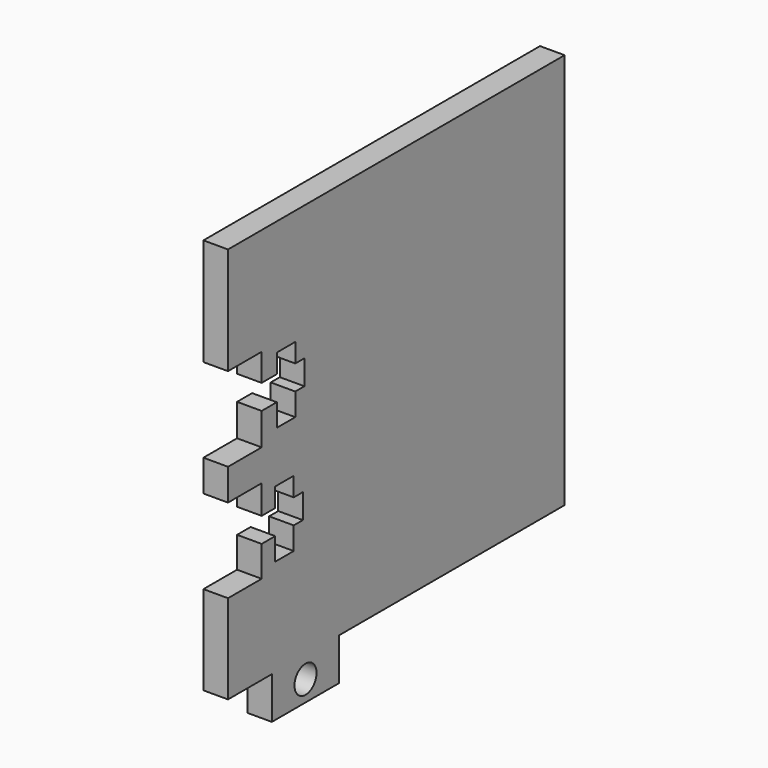
from build123d import *

# Parameters (mm, degrees)
F0_W     = 50.8
F0_H     = 50.8
F1_DEPTH = 2.9718
F2_W     = 5.08
F2_H     = 10.16
F3_DEPTH = 2.9728
F4_W     = 2.2792507852
F4_H     = 2.9790955722
F4_W_2   = 2.794
F4_W_3   = 1.3767347039
F4_H_2   = 2.2981600394
F4_H_3   = 2.7237443884
F4_W_4   = 2.0448682842
F5_DEPTH = 2.9728
F6_W     = 50.8
F6_H     = 2.9718
F7_DEPTH = 25.4
F8_W     = 10.16
F8_H     = 5.08
F8_R     = 1.6637
F9_DEPTH = 2.9718


with BuildPart() as f1:
    # F0 (on Right) → F1 (new body)
    with BuildSketch(Plane.YZ):
        Rectangle(F0_W, F0_H)
    extrude(amount=F1_DEPTH)

    # F2 (on face) → F3 (cut, through all)
    with BuildSketch(Plane.YZ.offset(2.9718)):
        with Locations((-22.86, 7.3814073086)):
            Rectangle(F2_W, F2_H)
        with Locations((-22.86, -6.5885926914)):
            Rectangle(F2_W, F2_H)
    extrude(amount=-F3_DEPTH, mode=Mode.SUBTRACT)

    # F4 (on face) → F5 (cut, through all)
    with BuildSketch(Plane.YZ.offset(2.9718)):
        with Locations((-19.1803746074, 7.6630806953)):
            Rectangle(F4_W, F4_H)
        with Locations((-16.6437492148, 7.6630806953)):
            Rectangle(F4_W_2, F4_H)
        with Locations((-14.5583818629, 7.6630806953)):
            Rectangle(F4_W_3, F4_H)
        with Locations((-16.6437492148, 10.3017085011)):
            Rectangle(F4_W_2, F4_H_2)
        with Locations((-16.6437492148, 4.811660715)):
            Rectangle(F4_W_2, F4_H_3)
        with Locations((-16.8781317158, -3.8333461044)):
            Rectangle(F4_W_2, F4_H_2)
        with Locations((-19.2975658579, -6.4719739102)):
            Rectangle(F4_W_4, F4_H)
        with Locations((-14.7927643638, -6.4719739102)):
            Rectangle(F4_W_3, F4_H)
        with Locations((-16.8781317158, -6.4719739102)):
            Rectangle(F4_W_2, F4_H)
        with Locations((-16.8781317158, -9.3233938905)):
            Rectangle(F4_W_2, F4_H_3)
    extrude(amount=-F5_DEPTH, mode=Mode.SUBTRACT)

    # F6 (on face) → F7 (cut)
    with BuildSketch(Plane.YZ.offset(2.9718)):
        with Locations((0, -23.9141)):
            Rectangle(F6_W, F6_H)
    extrude(amount=-F7_DEPTH, mode=Mode.SUBTRACT)

    # F8 (on face) → F9 (join)
    with BuildSketch(Plane.YZ.offset(2.9718)):
        with Locations((-13.7008163464, -24.9682)):
            Rectangle(F8_W, F8_H)
        with Locations((-13.7008163464, -25.0371717972)):
            Circle(F8_R, mode=Mode.SUBTRACT)
    extrude(amount=-F9_DEPTH)


solid = f1.part
